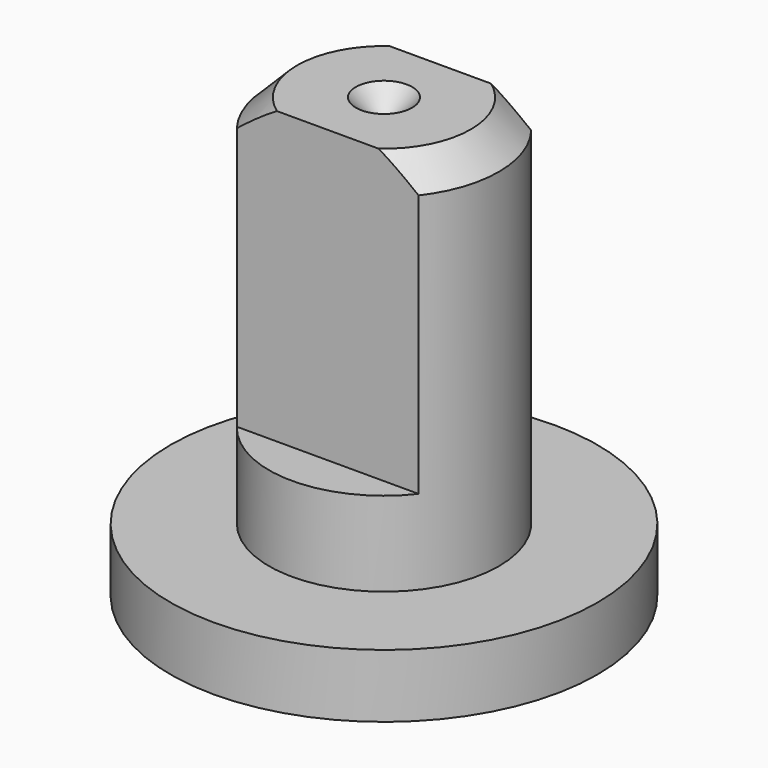
from build123d import *

# Parameters (mm, degrees)
F2_W     = 7.161952
F2_H     = 3
F3_DEPTH = 6.2


with BuildPart() as f1:
    # F0 (on Front) → F1 (revolve)
    with BuildSketch(Plane.XZ):
        Polygon((0, 8.75), (0, 0), (4.55, 0), (4.55, 1.35), (2.45, 1.35), (2.45, 8.75), (1.85, 9.35), (0.6, 9.35), align=None)
    revolve(axis=Axis((0, 0, 11.047808), (0, 0, 1)))

    # F2 (on face) → F3 (cut)
    with BuildSketch(Plane.XY.offset(9.35)):
        with Locations((0.21525, 3)):
            Rectangle(F2_W, F2_H)
        with Locations((0.21525, -3)):
            Rectangle(F2_W, F2_H)
    extrude(amount=-F3_DEPTH, mode=Mode.SUBTRACT)


solid = f1.part
